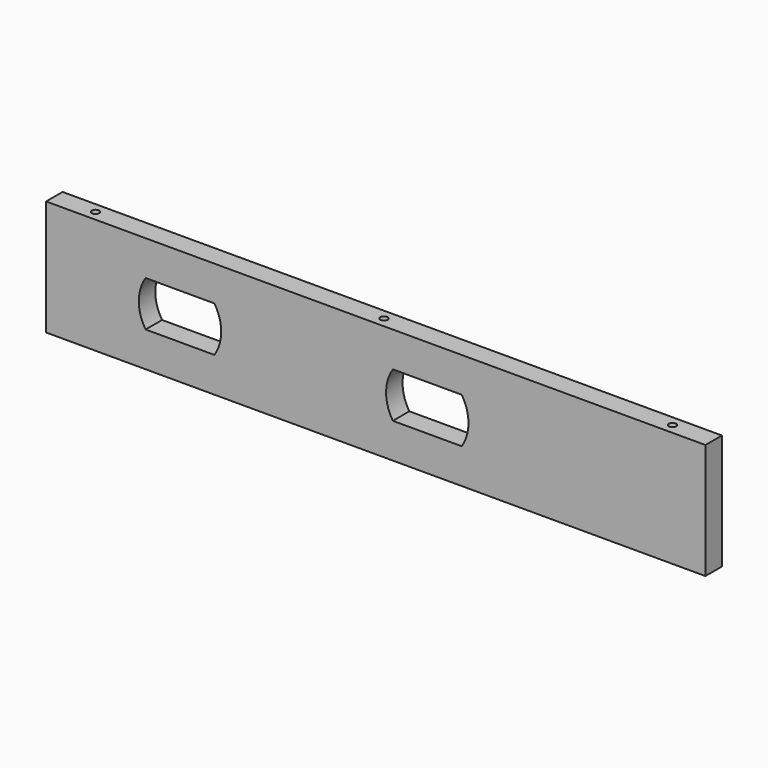
from build123d import *

# Parameters (mm, degrees)
F0_W     = 203.2
F0_H     = 6.35
F1_DEPTH = 35.56
F3_D     = 2.2606
F3_DEPTH = 13.74775
F3_TIP   = 0.6791527577
F5_DEPTH = 6.351


with BuildPart() as f1:
    # F0 (on Top) → F1 (new body)
    with BuildSketch(Plane.XY):
        Rectangle(F0_W, F0_H)
    extrude(amount=F1_DEPTH)

    # F3
    with Locations(Plane.XY.offset(35.56)):
        with Locations((0, 0), (88.9, 0), (-88.9, 0)):
            Hole(F3_D / 2, depth=F3_DEPTH)
            with Locations((0, 0, -(F3_DEPTH + F3_TIP / 2))):  # 118° drill point
                Cone(0, F3_D / 2, F3_TIP, mode=Mode.SUBTRACT)

    # F4 (on face) → F5 (cut, through all)
    with BuildSketch(Plane(origin=(0, 3.175, 0), x_dir=(-1, 0, 0), z_dir=(0, 1, 0))):
        with BuildLine():
            Line((70.9315911112, 24.765), (49.7184088888, 24.765))
            ThreePointArc((49.7184088888, 24.765), (47.625, 17.78), (49.7184088888, 10.795))
            Line((49.7184088888, 10.795), (70.9315911112, 10.795))
            ThreePointArc((70.9315911112, 10.795), (73.025, 17.78), (70.9315911112, 24.765))
        make_face()
        with BuildLine():
            Line((-26.4815911112, 10.795), (-5.2684088888, 10.795))
            ThreePointArc((-5.2684088888, 10.795), (-3.175, 17.78), (-5.2684088888, 24.765))
            Line((-5.2684088888, 24.765), (-26.4815911112, 24.765))
            ThreePointArc((-26.4815911112, 24.765), (-28.575, 17.78), (-26.4815911112, 10.795))
        make_face()
    extrude(amount=-F5_DEPTH, mode=Mode.SUBTRACT)


solid = f1.part
